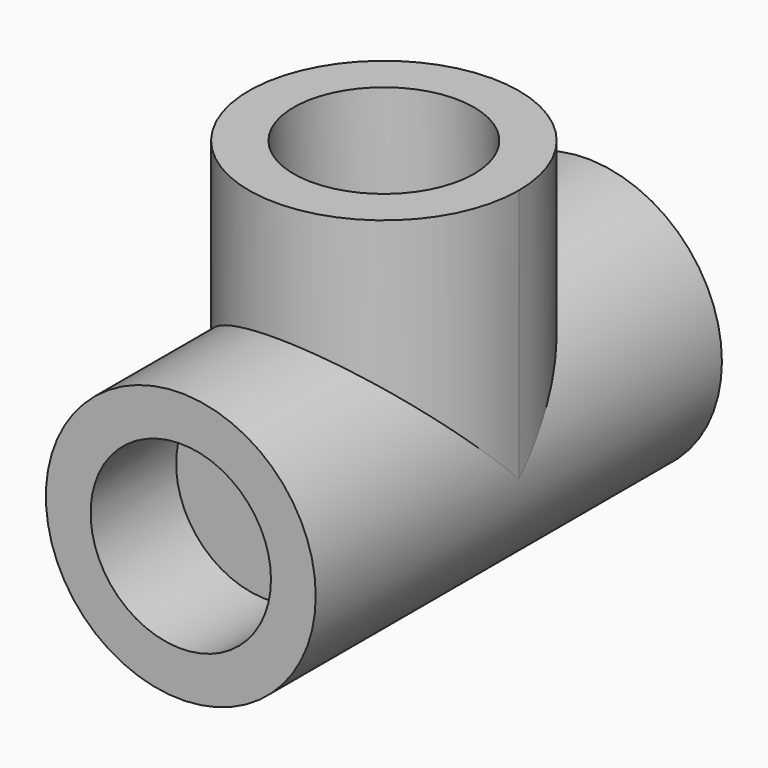
from build123d import *

# Parameters (mm, degrees)
F0_R     = 0.505
F1_DEPTH = 1.9
F3_DEPTH = 0.95
F4_R     = 0.3375
F5_DEPTH = 0.4
F6_R     = 0.3375
F7_DEPTH = 0.4
F8_R     = 0.3375
F9_DEPTH = 0.4


with BuildPart() as f1:
    # F0 (on Front) → F1 (new body)
    with BuildSketch(Plane.XZ):
        Circle(F0_R)
    extrude(amount=F1_DEPTH)

    # F2 (on Top) → F3 (join)
    with BuildSketch(Plane.XY):
        with BuildLine():
            ThreePointArc((0, -0.445), (-0.357089, -1.307089), (0.505, -0.95))
            ThreePointArc((0.505, -0.95), (0.357089, -0.592911), (0, -0.445))
        make_face()
    extrude(amount=F3_DEPTH)

    # F4 (on face) → F5 (cut)
    with BuildSketch(Plane.XZ.offset(1.9)):
        Circle(F4_R)
    extrude(amount=-F5_DEPTH, mode=Mode.SUBTRACT)

    # F6 (on face) → F7 (cut)
    with BuildSketch(Plane.XY.offset(0.95)):
        with Locations((0, -0.95)):
            Circle(F6_R)
    extrude(amount=-F7_DEPTH, mode=Mode.SUBTRACT)

    # F8 (on face) → F9 (cut)
    with BuildSketch(Plane(origin=(0, 0, 0), x_dir=(-1, 0, 0), z_dir=(0, 1, 0))):
        Circle(F8_R)
    extrude(amount=-F9_DEPTH, mode=Mode.SUBTRACT)


solid = f1.part
